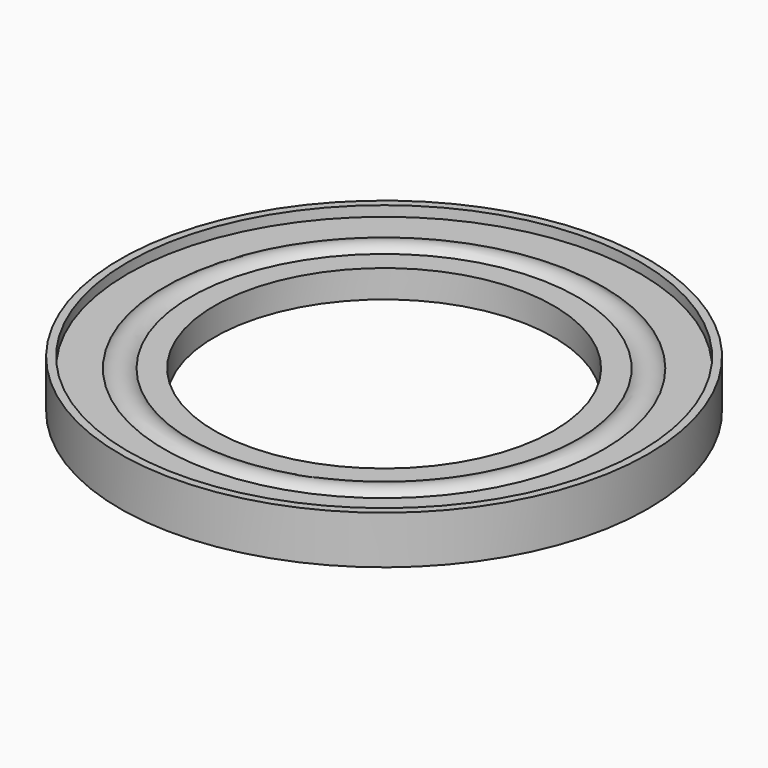
from build123d import *


with BuildPart() as f1:
    # F0 (on Front) → F1 (revolve)
    with BuildSketch(Plane.XZ):
        with BuildLine():
            Line((24.85, 1.5), (28.35, 1.5))
            ThreePointArc((28.35, 1.5), (27.481033, 3.525), (28.35, 5.55))
            Line((28.35, 5.55), (24.85, 5.55))
            Line((24.85, 5.55), (24.85, 1.5))
        make_face()
        with BuildLine():
            Line((37.56, 0), (38.7, 0))
            Line((38.7, 0), (38.7, 7.05))
            Line((38.7, 7.05), (37.56, 7.05))
            Line((37.56, 7.05), (37.56, 5.55))
            Line((37.56, 5.55), (32.2, 5.55))
            ThreePointArc((32.2, 5.55), (32.842551, 4.626786), (33.068967, 3.525))
            ThreePointArc((33.068967, 3.525), (32.842551, 2.423214), (32.2, 1.5))
            Line((32.2, 1.5), (37.56, 1.5))
            Line((37.56, 1.5), (37.56, 0))
        make_face()
        with BuildLine():
            ThreePointArc((28.35, 1.5), (30.275, 0.731033), (32.2, 1.5))
            ThreePointArc((32.2, 1.5), (32.842551, 2.423214), (33.068967, 3.525))
            ThreePointArc((33.068967, 3.525), (32.842551, 4.626786), (32.2, 5.55))
            ThreePointArc((32.2, 5.55), (30.275, 6.318967), (28.35, 5.55))
            ThreePointArc((28.35, 5.55), (27.481033, 3.525), (28.35, 1.5))
        make_face()
    revolve(axis=Axis((0, 0, 3.525), (0, 0, 1)))


solid = f1.part
